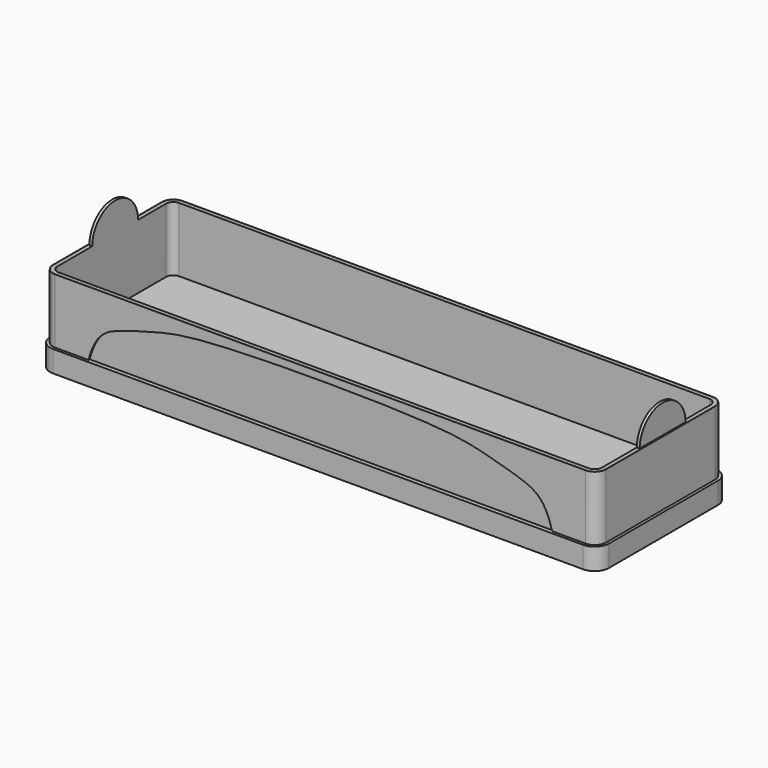
from build123d import *

# Parameters (mm, degrees)
F2_DEPTH  = 10
F3_DEPTH  = 60
F5_DEPTH  = 2
F7_DEPTH  = 2
F9_DEPTH  = 60
F11_DEPTH = 15
F13_DEPTH = 1


with BuildPart() as f2:
    # F0 (on Top) → F2 (new body)
    with BuildSketch(Plane.XY):
        with BuildLine():
            Line((375, 105), (5, 105))
            ThreePointArc((5, 105), (1.4644660941, 103.5355339059), (0, 100))
            Line((0, 100), (0, 5))
            ThreePointArc((0, 5), (1.4644660941, 1.4644660941), (5, 0))
            Line((5, 0), (375, 0))
            ThreePointArc((375, 0), (378.5355339059, 1.4644660941), (380, 5))
            Line((380, 5), (380, 100))
            ThreePointArc((380, 100), (378.5355339059, 103.5355339059), (375, 105))
        make_face()
    extrude(amount=F2_DEPTH)


with BuildPart() as f3:
    # F1 (on Top) → F3 (new body)
    with BuildSketch(Plane.XY):
        with BuildLine():
            Line((-2, 100), (-2, 5))
            ThreePointArc((-2, 5), (0.0502525317, 0.0502525317), (5, -2))
            Line((5, -2), (375, -2))
            ThreePointArc((375, -2), (379.9497474683, 0.0502525317), (382, 5))
            Line((382, 5), (382, 100))
            ThreePointArc((382, 100), (379.9497474683, 104.9497474683), (375, 107))
            Line((375, 107), (5, 107))
            ThreePointArc((5, 107), (0.0502525317, 104.9497474683), (-2, 100))
        make_face()
        with BuildLine():
            ThreePointArc((0, 100), (1.4644660941, 103.5355339059), (5, 105))
            Line((5, 105), (375, 105))
            ThreePointArc((375, 105), (378.5355339059, 103.5355339059), (380, 100))
            Line((380, 100), (380, 5))
            ThreePointArc((380, 5), (378.5355339059, 1.4644660941), (375, 0))
            Line((375, 0), (5, 0))
            ThreePointArc((5, 0), (1.4644660941, 1.4644660941), (0, 5))
            Line((0, 5), (0, 100))
        make_face(mode=Mode.SUBTRACT)
    extrude(amount=F3_DEPTH)

    # F4 (on face) → F5 (join)
    with BuildSketch(Plane(origin=(-2, 0, 0), x_dir=(0, -1, 0), z_dir=(-1, 0, 0))):
        with BuildLine():
            Line((-75.5, 60), (-35.5, 60))
            ThreePointArc((-35.5, 60), (-55.5, 80), (-75.5, 60))
        make_face()
    extrude(amount=-F5_DEPTH)


with BuildPart() as f7:
    # F6 (on face) → F7 (new body)
    with BuildSketch(Plane.YZ.offset(382)):
        with BuildLine():
            Line((35.5, 60), (75.5, 60))
            ThreePointArc((75.5, 60), (55.5, 80), (35.5, 60))
        make_face()
    extrude(amount=-F7_DEPTH)


with BuildPart() as f9:
    # F8 (on face) → F9 (new body)
    with BuildSketch(Plane(origin=(0, 0, 0), x_dir=(1, 0, 0), z_dir=(0, 0, -1))):
        with BuildLine():
            ThreePointArc((5, 3), (-0.6568542495, 0.6568542495), (-3, -5))
            Line((-3, -5), (-3, -100))
            ThreePointArc((-3, -100), (-0.6568542495, -105.6568542495), (5, -108))
            Line((5, -108), (375, -108))
            ThreePointArc((375, -108), (380.6568542495, -105.6568542495), (383, -100))
            Line((383, -100), (383, -5))
            ThreePointArc((383, -5), (380.6568542495, 0.6568542495), (375, 3))
            Line((375, 3), (5, 3))
        make_face()
        with BuildLine():
            ThreePointArc((5, -107), (0.0502525317, -104.9497474683), (-2, -100))
            Line((-2, -100), (-2, -5))
            ThreePointArc((-2, -5), (0.0502525317, -0.0502525317), (5, 2))
            Line((5, 2), (375, 2))
            ThreePointArc((375, 2), (379.9497474683, -0.0502525317), (382, -5))
            Line((382, -5), (382, -100))
            ThreePointArc((382, -100), (379.9497474683, -104.9497474683), (375, -107))
            Line((375, -107), (5, -107))
        make_face(mode=Mode.SUBTRACT)
    extrude(amount=-F9_DEPTH)

    # F12 (on face) → F13 (cut, symmetric)
    with BuildSketch(Plane.XZ.offset(3)):
        with BuildLine():
            add(Edge.make_bspline(
                [(28.1935859575, 15), (33.0186100511, 32.8053269822), (46.5795881553, 39.6828764907), (73.159449409, 46.7690119016), (98.9956348053, 53.6650429978), (154.2856206632, 55), (190, 55)],
                knots=[0, 0, 0, 0, 0.2238593677, 0.4181327763, 0.619261247, 1, 1, 1, 1], degree=3))
            Line((28.1935859575, 15), (190, 15))
            Line((190, 15), (190, 55))
        make_face()
        with BuildLine():
            add(Edge.make_bspline(
                [(351.8064140425, 15), (346.9813899489, 32.8053269822), (333.4204118447, 39.6828764907), (306.840550591, 46.7690119016), (281.0043651947, 53.6650429978), (225.7143793368, 55), (190, 55)],
                knots=[0, 0, 0, 0, 0.2238593677, 0.4181327763, 0.619261247, 1, 1, 1, 1], degree=3))
            Line((190, 55), (190, 15))
            Line((190, 15), (351.8064140425, 15))
        make_face()
    extrude(amount=F13_DEPTH, both=True, mode=Mode.SUBTRACT)


with BuildPart() as f11:
    # F10 (on face) → F11 (new body)
    with BuildSketch(Plane(origin=(0, 0, 0), x_dir=(1, 0, 0), z_dir=(0, 0, -1))):
        with BuildLine():
            ThreePointArc((5, 5), (-2.0710678119, 2.0710678119), (-5, -5))
            Line((-5, -5), (-5, -100))
            ThreePointArc((-5, -100), (-2.0710678119, -107.0710678119), (5, -110))
            Line((5, -110), (375, -110))
            ThreePointArc((375, -110), (382.0710678119, -107.0710678119), (385, -100))
            Line((385, -100), (385, -5))
            ThreePointArc((385, -5), (382.0710678119, 2.0710678119), (375, 5))
            Line((375, 5), (5, 5))
        make_face()
    extrude(amount=-F11_DEPTH)


solid = Compound([f2.part, f3.part, f7.part, f9.part, f11.part])
